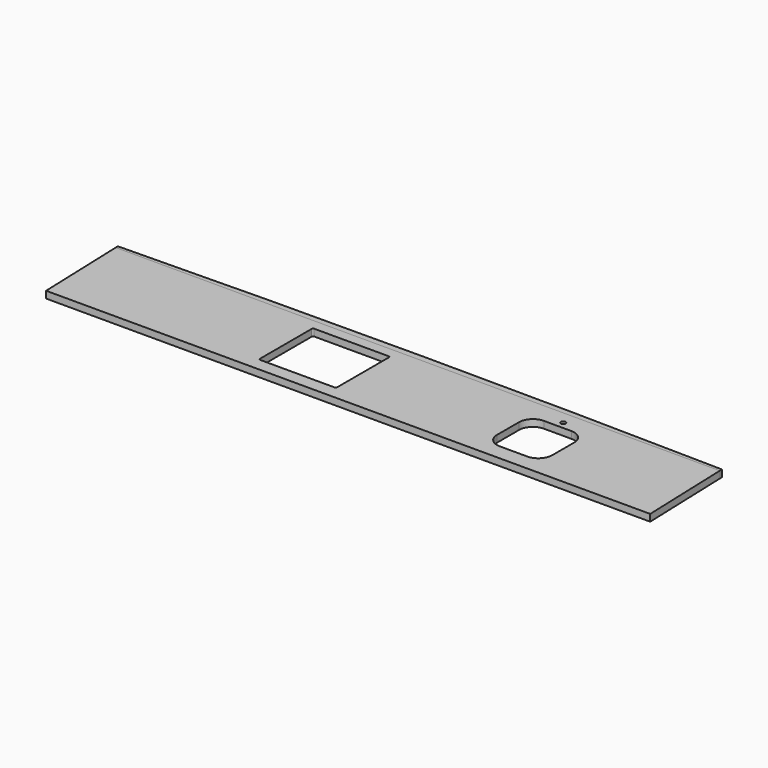
from build123d import *

# Parameters (mm, degrees)
F0_R     = 17.5
F1_DEPTH = 50
F3_DEPTH = 0.1


with BuildPart() as f1:
    # F0 (on Top) → F1 (new body)
    with BuildSketch(Plane.XY):
        Polygon((2208.547708, -320), (2185.5, 340), (-2196.5, 340), (-2173.452292, -320), align=None)
        with BuildLine():
            ThreePointArc((-706.5, 255), (-703.571068, 262.071068), (-696.5, 265))
            Line((-696.5, 265), (-156.5, 265))
            ThreePointArc((-156.5, 265), (-149.428932, 262.071068), (-146.5, 255))
            Line((-146.5, 255), (-146.5, -215))
            ThreePointArc((-146.5, -215), (-149.428932, -222.071068), (-156.5, -225))
            Line((-156.5, -225), (-696.5, -225))
            ThreePointArc((-696.5, -225), (-703.571068, -222.071068), (-706.5, -215))
            Line((-706.5, -215), (-706.5, 255))
        make_face(mode=Mode.SUBTRACT)
        with BuildLine():
            ThreePointArc((925.5, 95), (954.789322, 165.710678), (1025.5, 195))
            Line((1025.5, 195), (1225.5, 195))
            ThreePointArc((1225.5, 195), (1296.210678, 165.710678), (1325.5, 95))
            Line((1325.5, 95), (1325.5, -105))
            ThreePointArc((1325.5, -105), (1296.210678, -175.710678), (1225.5, -205))
            Line((1225.5, -205), (1025.5, -205))
            ThreePointArc((1025.5, -205), (954.789322, -175.710678), (925.5, -105))
            Line((925.5, -105), (925.5, 95))
        make_face(mode=Mode.SUBTRACT)
        with Locations((1125.5, 245)):
            Circle(F0_R, mode=Mode.SUBTRACT)
        with BuildLine():
            Line((-2196.5, 340), (2185.5, 340))
            Line((2185.5, 340), (2184.801039, 360.015612))
            ThreePointArc((2184.801039, 360.015612), (-5.849567, 384.469841), (-2196.5, 360))
            ThreePointArc((-2196.5, 360), (-2196.848935, 359.992204), (-2197.197871, 359.984407))
            Line((-2197.197871, 359.984407), (-2196.5, 340))
        make_face()
    extrude(amount=F1_DEPTH)

    # F2 (on face) → F3 (cut)
    with BuildSketch(Plane.XY.offset(50)):
        Polygon((-2304.119587, 442.101628), (-2196.5, 340), (2184.801039, 340), (2251.085272, 442.101628), align=None)
    extrude(amount=-F3_DEPTH, mode=Mode.SUBTRACT)


solid = f1.part
